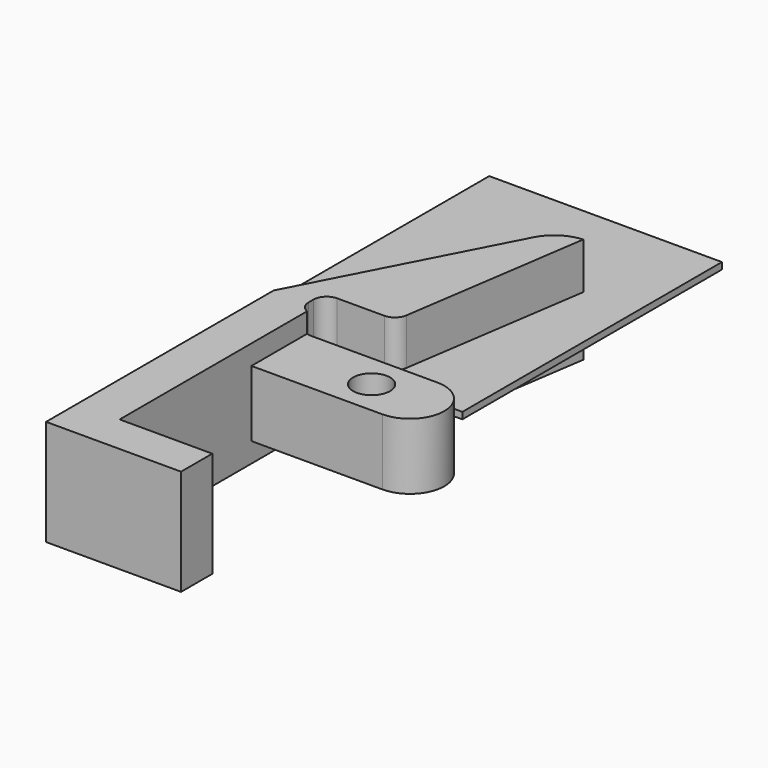
from build123d import *

# Parameters (mm, degrees)
F0_R     = 1.4
F1_DEPTH = 8
F3_W     = 17.5872370601
F3_H     = 24.5230514556
F4_DEPTH = 0.5
F5_R     = 1.4
F6_DEPTH = 1.5
F7_R     = 1.4
F8_DEPTH = 1.5


with BuildPart() as f1:
    # F0 (on Top) → F1 (new body)
    with BuildSketch(Plane.XY):
        with BuildLine():
            Line((-10.2, 0), (0, 0))
            Line((0, 0), (0, 2.95))
            Line((0, 2.95), (-7, 2.95))
            Line((-7, 2.95), (-7, 15.4))
            Line((-7, 15.4), (2.9, 15.4))
            ThreePointArc((2.9, 15.4), (5.5, 18), (2.9, 20.6))
            Line((2.9, 20.6), (-6.6411852492, 20.6))
            ThreePointArc((-6.6411852492, 20.6), (-7.3482920304, 20.8928932188), (-7.6411852492, 21.6))
            Line((-7.6411852492, 21.6), (-7.6411852492, 22.0574738234))
            ThreePointArc((-7.6411852492, 22.0574738234), (-7.3482920304, 22.7645806046), (-6.6411852492, 23.0574738234))
            Line((-6.6411852492, 23.0574738234), (-3.0835396533, 23.0574738234))
            ThreePointArc((-3.0835396533, 23.0574738234), (-2.4304830107, 23.3001647574), (-2.0944082211, 23.9104397804))
            Line((-2.0944082211, 23.9104397804), (0, 38))
            ThreePointArc((0, 38), (-1.4489432485, 37.5193323495), (-2.4737455949, 36.3878474497))
            Line((-2.4737455949, 36.3878474497), (-10.2, 21.5))
            Line((-10.2, 21.5), (-10.2, 2.95))
            Line((-10.2, 2.95), (-10.2, 0))
        make_face()
        with Locations((0, 18)):
            Circle(F0_R, mode=Mode.SUBTRACT)
    extrude(amount=F1_DEPTH)

    # F3 (on mid) → F4 (join)
    with BuildSketch(Plane.XY.offset(4)):
        with Locations((-4.8047471792, 33.8525986299)):
            Rectangle(F3_W, F3_H)
    extrude(amount=F4_DEPTH)

    # F5 (on face) → F6 (cut)
    with BuildSketch(Plane.XY.offset(8)):
        with BuildLine():
            Line((-7, 20.6665912071), (-7, 15.4))
            Line((-7, 15.4), (2.9, 15.4))
            ThreePointArc((2.9, 15.4), (5.5, 18), (2.9, 20.6))
            Line((2.9, 20.6), (-6.6411852492, 20.6))
            ThreePointArc((-6.6411852492, 20.6), (-6.8236560785, 20.6167887326), (-7, 20.6665912071))
        make_face()
        with Locations((0, 18)):
            Circle(F5_R, mode=Mode.SUBTRACT)
    extrude(amount=-F6_DEPTH, mode=Mode.SUBTRACT)

    # F7 (on face) → F8 (cut)
    with BuildSketch(Plane(origin=(0, 0, 0), x_dir=(1, 0, 0), z_dir=(0, 0, -1))):
        with BuildLine():
            Line((2.9, -15.4), (-7, -15.4))
            Line((-7, -15.4), (-7, -20.6665912071))
            ThreePointArc((-7, -20.6665912071), (-6.8236560785, -20.6167887326), (-6.6411852492, -20.6))
            Line((-6.6411852492, -20.6), (2.9, -20.6))
            ThreePointArc((2.9, -20.6), (5.5, -18), (2.9, -15.4))
        make_face()
        with Locations((0, -18)):
            Circle(F7_R, mode=Mode.SUBTRACT)
    extrude(amount=-F8_DEPTH, mode=Mode.SUBTRACT)


solid = f1.part
